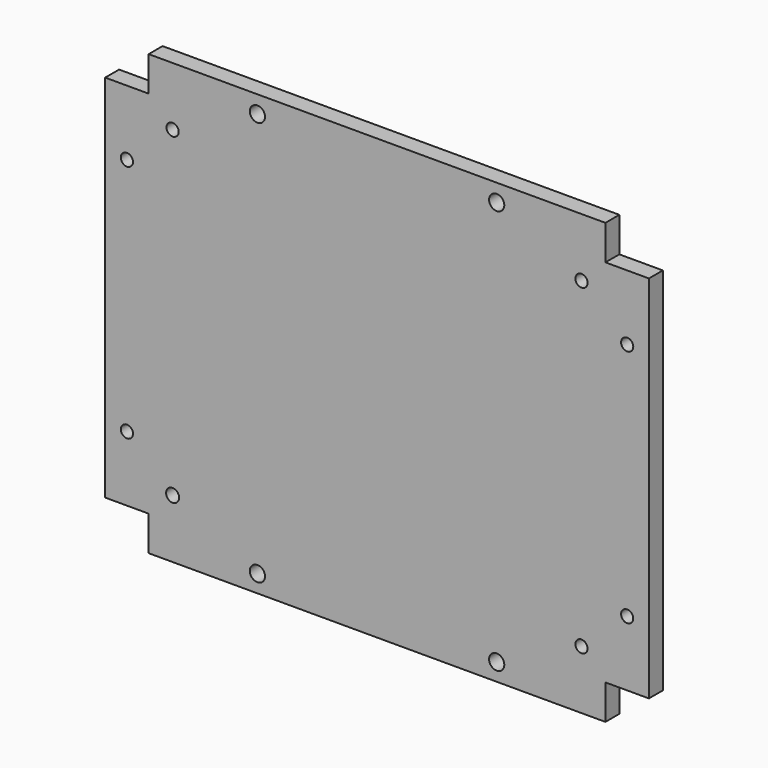
from build123d import *

# Parameters (mm, degrees)
F0_W     = 105
F0_H     = 85
F0_R     = 3
F0_W_2   = 10
F0_R_2   = 1.4
F0_H_2   = 8
F0_R_3   = 1.75
F0_R_4   = 1.5
F1_DEPTH = 4


with BuildPart() as f1:
    # F0 (on Front) → F1 (new body)
    with BuildSketch(Plane.XZ):
        Rectangle(F0_W, F0_H)
        with Locations((-47, -37)):
            Circle(F0_R, mode=Mode.SUBTRACT)
        with Locations((47, -37)):
            Circle(F0_R, mode=Mode.SUBTRACT)
        with Locations((-47, 37)):
            Circle(F0_R, mode=Mode.SUBTRACT)
        with Locations((47, 37)):
            Circle(F0_R, mode=Mode.SUBTRACT)
        with Locations((-57.5, 0)):
            Rectangle(F0_W_2, F0_H)
        with Locations((-57.5, -27.5)):
            Circle(F0_R_2, mode=Mode.SUBTRACT)
        with Locations((-57.5, 27.5)):
            Circle(F0_R_2, mode=Mode.SUBTRACT)
        with Locations((0, 46.5)):
            Rectangle(F0_W, F0_H_2)
        with Locations((-27.5, 46.5)):
            Circle(F0_R_3, mode=Mode.SUBTRACT)
        with Locations((27.5, 46.5)):
            Circle(F0_R_3, mode=Mode.SUBTRACT)
        with Locations((57.5, 0)):
            Rectangle(F0_W_2, F0_H)
        with Locations((57.5, -27.5)):
            Circle(F0_R_2, mode=Mode.SUBTRACT)
        with Locations((57.5, 27.5)):
            Circle(F0_R_2, mode=Mode.SUBTRACT)
        with Locations((0, -46.5)):
            Rectangle(F0_W, F0_H_2)
        with Locations((-27.5, -46.5)):
            Circle(F0_R_3, mode=Mode.SUBTRACT)
        with Locations((27.5, -46.5)):
            Circle(F0_R_3, mode=Mode.SUBTRACT)
        with Locations((-47, 37)):
            Circle(F0_R)
        with Locations((-47, 37)):
            Circle(F0_R_2, mode=Mode.SUBTRACT)
        with Locations((47, 37)):
            Circle(F0_R)
        with Locations((47, 37)):
            Circle(F0_R_2, mode=Mode.SUBTRACT)
        with Locations((47, -37)):
            Circle(F0_R)
        with Locations((47, -37)):
            Circle(F0_R_2, mode=Mode.SUBTRACT)
        with Locations((-47, -37)):
            Circle(F0_R)
        with Locations((-47, -37)):
            Circle(F0_R_4, mode=Mode.SUBTRACT)
    extrude(amount=F1_DEPTH)


solid = f1.part
